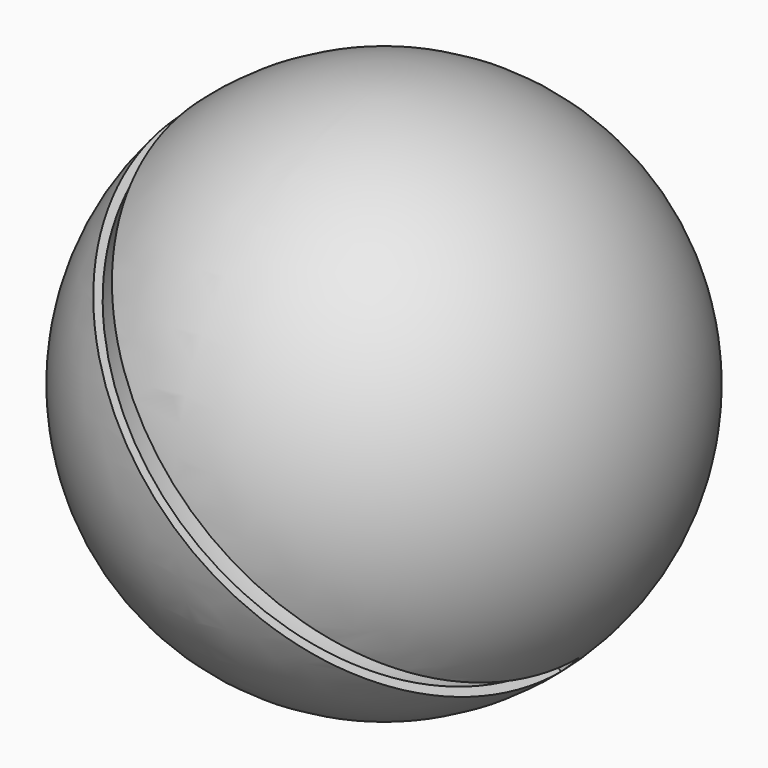
from build123d import *

# Parameters (mm, degrees)
F3_DEPTH = 30


with BuildPart() as f1:
    # F0 (on Right) → F1 (revolve)
    with BuildSketch(Plane.YZ):
        with BuildLine():
            Line((0, 29), (0, 30))
            ThreePointArc((0, 30), (-30, 0), (0, -30))
            Line((0, -30), (0, -29))
            ThreePointArc((0, -29), (-29, 0), (0, 29))
        make_face()
    revolve(axis=Axis((0, 0, -1.855759), (0, 0, -1)))


with BuildPart() as f3:
    # F2 (on Front) → F3 (new body)
    with BuildSketch(Plane.XZ):
        Polygon((-23.688077, 25.809398), (-25.809398, 23.688077), (23.688077, -25.809398), (25.809398, -23.688077), align=None)
    extrude(amount=F3_DEPTH)


with BuildPart() as f1_1:
    add(f1.part)

    # F4: cut F3
    add(f3.part, mode=Mode.SUBTRACT)


solid = f1_1.part
